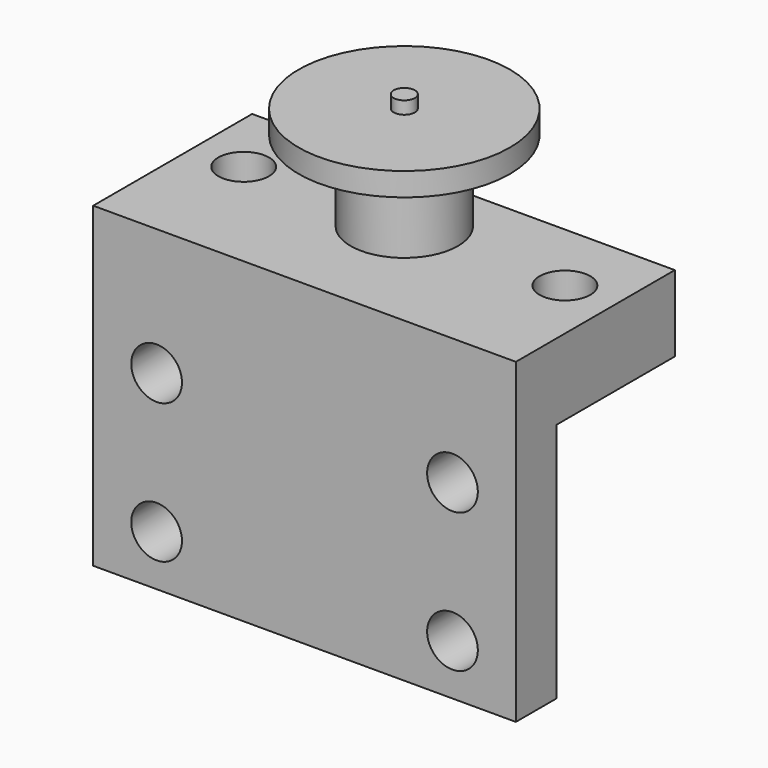
from build123d import *

# Parameters (mm, degrees)
F0_W      = 100
F0_H      = 35
F1_DEPTH  = 18
F3_D      = 12
F4_R      = 12.7
F5_DEPTH  = 19
F6_R      = 25
F6_R_2    = 12.7
F7_DEPTH  = 5.5
F8_R      = 2.5
F9_DEPTH  = 3
F10_W     = 100
F10_H     = 57
F10_H_2   = 18
F11_DEPTH = 12
F13_D     = 12


with BuildPart() as f1:
    # F0 (on Top) → F1 (new body)
    with BuildSketch(Plane.XY):
        Rectangle(F0_W, F0_H)
    extrude(amount=-F1_DEPTH)

    # F3 (through all)
    with Locations(Plane.XY):
        with Locations((-38, 0), (38, 0)):
            Hole(F3_D / 2)

    # F4 (on face) → F5 (join)
    with BuildSketch(Plane.XY):
        Circle(F4_R)
    extrude(amount=F5_DEPTH)

    # F6 (on face) → F7 (join)
    with BuildSketch(Plane.XY.offset(19)):
        Circle(F6_R)
        Circle(F6_R_2, mode=Mode.SUBTRACT)
        Circle(F6_R_2)
    extrude(amount=F7_DEPTH)

    # F8 (on face) → F9 (join)
    with BuildSketch(Plane.XY.offset(24.5)):
        Circle(F8_R)
    extrude(amount=F9_DEPTH)

    # F10 (on face) → F11 (join)
    with BuildSketch(Plane.XZ.offset(17.5)):
        with Locations((0, -46.5)):
            Rectangle(F10_W, F10_H)
        with Locations((0, -9)):
            Rectangle(F10_W, F10_H_2)
    extrude(amount=F11_DEPTH)

    # F13 (through all)
    with Locations(Plane(origin=(0, -17.5, 0), x_dir=(-1, 0, 0), z_dir=(0, 1, 0))):
        with Locations((-35, -30), (-35, -63), (35, -63), (35, -30)):
            Hole(F13_D / 2)


solid = f1.part
